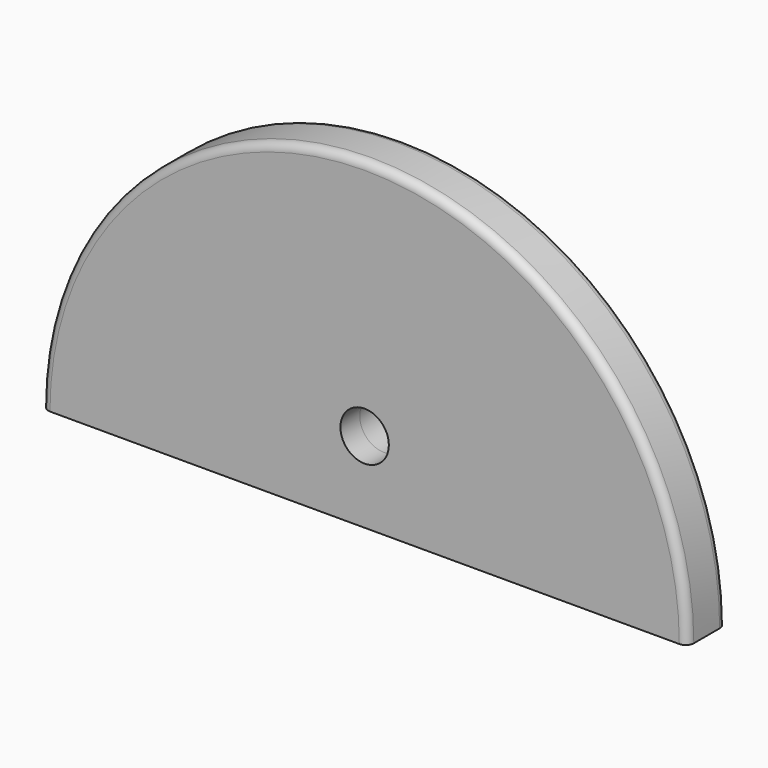
from build123d import *

# Parameters (mm, degrees)
F0_R          = 1.5
F1_DEPTH      = 1.5
F1_DEPTH_BACK = 1.5
F2_R          = 0.5


with BuildPart() as f1:
    # F0 (on Front) → F1 (new body, two sides)
    with BuildSketch(Plane.XZ) as f1_sk:
        with BuildLine():
            Line((-20, 0), (20, 0))
            ThreePointArc((20, 0), (0, 20), (-20, 0))
        make_face()
        with Locations((0, 5)):
            Circle(F0_R, mode=Mode.SUBTRACT)
    extrude(amount=F1_DEPTH)
    extrude(f1_sk.sketch, amount=-F1_DEPTH_BACK)

    # F2
    f2_edges = [f1.edges().sort_by_distance(p)[0] for p in [
        (0, -1.5, 20),
        (0, 1.5, 20),
    ]]
    fillet(f2_edges, radius=F2_R)


solid = f1.part
